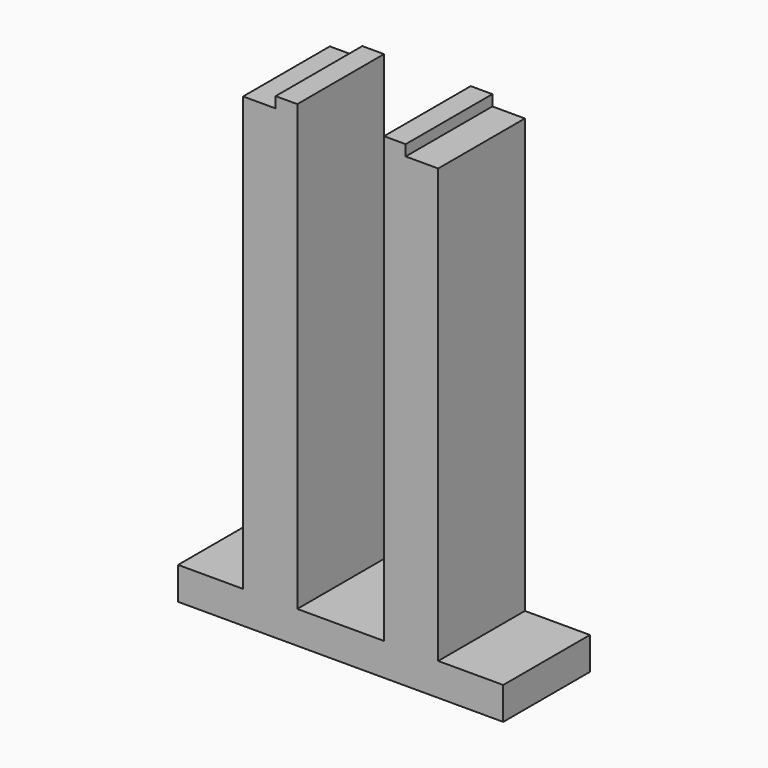
from build123d import *

# Parameters (mm, degrees)
F0_W     = 6
F0_H     = 10
F0_W_2   = 3
F0_W_3   = 2
F0_W_4   = 8
F1_DEPTH = 3
F2_DEPTH = 43
F3_DEPTH = 44


with BuildPart() as f1:
    # F0 (on Top) → F1 (new body)
    with BuildSketch(Plane.XY):
        with Locations((-12, 0)):
            Rectangle(F0_W, F0_H)
        with Locations((-7.5, 0)):
            Rectangle(F0_W_2, F0_H)
        with Locations((-5, 0)):
            Rectangle(F0_W_3, F0_H)
        Rectangle(F0_W_4, F0_H)
        with Locations((5, 0)):
            Rectangle(F0_W_3, F0_H)
        with Locations((7.5, 0)):
            Rectangle(F0_W_2, F0_H)
        with Locations((12, 0)):
            Rectangle(F0_W, F0_H)
    extrude(amount=F1_DEPTH)

    # F0 (on Top) → F2 (join)
    with BuildSketch(Plane.XY):
        with Locations((7.5, 0)):
            Rectangle(F0_W_2, F0_H)
        with Locations((-7.5, 0)):
            Rectangle(F0_W_2, F0_H)
    extrude(amount=F2_DEPTH)

    # F0 (on Top) → F3 (join)
    with BuildSketch(Plane.XY):
        with Locations((-5, 0)):
            Rectangle(F0_W_3, F0_H)
        with Locations((5, 0)):
            Rectangle(F0_W_3, F0_H)
    extrude(amount=F3_DEPTH)


solid = f1.part
